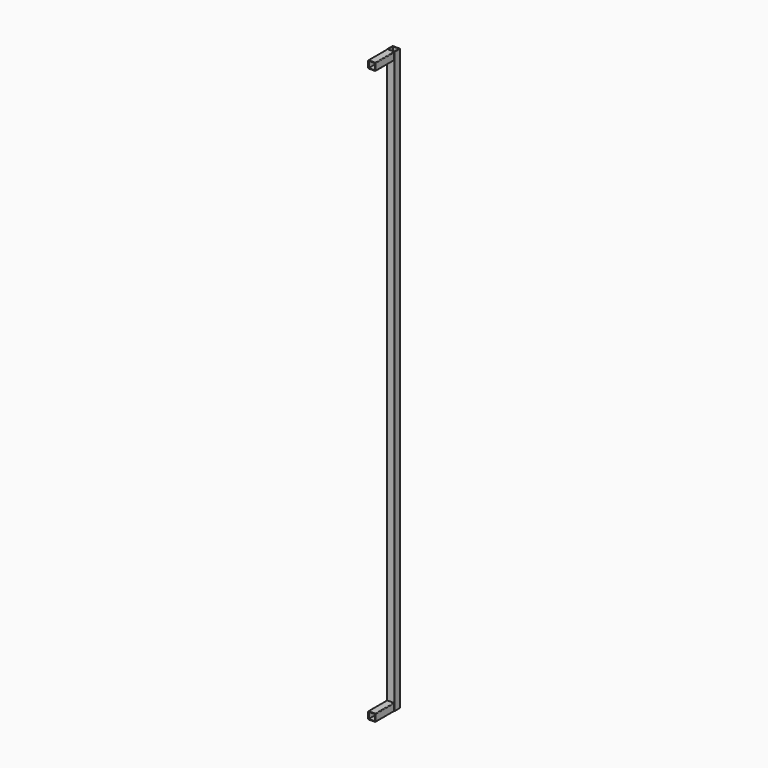
from build123d import *

# Parameters (mm, degrees)
F0_W     = 26.75
F0_H     = 26.75
F1_DEPTH = 2500
F2_W     = 26.75
F2_H     = 26.75
F3_DEPTH = 100


with BuildPart() as f1:
    # F0 (on Top) → F1 (new body)
    with BuildSketch(Plane.XY):
        with BuildLine():
            ThreePointArc((15.875, 13.375), (15.142767, 15.142767), (13.375, 15.875))
            Line((13.375, 15.875), (-13.375, 15.875))
            ThreePointArc((-13.375, 15.875), (-15.142767, 15.142767), (-15.875, 13.375))
            Line((-15.875, 13.375), (-15.875, -13.375))
            ThreePointArc((-15.875, -13.375), (-15.142767, -15.142767), (-13.375, -15.875))
            Line((-13.375, -15.875), (13.375, -15.875))
            ThreePointArc((13.375, -15.875), (15.142767, -15.142767), (15.875, -13.375))
            Line((15.875, -13.375), (15.875, 13.375))
        make_face()
        Rectangle(F0_W, F0_H, mode=Mode.SUBTRACT)
    extrude(amount=F1_DEPTH)


with BuildPart() as f3:
    # F2 (on face) → F3 (new body)
    with BuildSketch(Plane.XZ.offset(15.875)):
        with BuildLine():
            Line((-13.375, 2468.25), (13.375, 2468.25))
            ThreePointArc((13.375, 2468.25), (15.142767, 2468.982233), (15.875, 2470.75))
            Line((15.875, 2470.75), (15.875, 2497.5))
            ThreePointArc((15.875, 2497.5), (15.142767, 2499.267767), (13.375, 2500))
            Line((13.375, 2500), (-13.375, 2500))
            ThreePointArc((-13.375, 2500), (-15.142767, 2499.267767), (-15.875, 2497.5))
            Line((-15.875, 2497.5), (-15.875, 2470.75))
            ThreePointArc((-15.875, 2470.75), (-15.142767, 2468.982233), (-13.375, 2468.25))
        make_face()
        with Locations((0, 2484.125)):
            Rectangle(F2_W, F2_H, mode=Mode.SUBTRACT)
        with BuildLine():
            Line((-13.375, 0), (13.375, 0))
            ThreePointArc((13.375, 0), (15.142767, 0.732233), (15.875, 2.5))
            Line((15.875, 2.5), (15.875, 29.25))
            ThreePointArc((15.875, 29.25), (15.142767, 31.017767), (13.375, 31.75))
            Line((13.375, 31.75), (-13.375, 31.75))
            ThreePointArc((-13.375, 31.75), (-15.142767, 31.017767), (-15.875, 29.25))
            Line((-15.875, 29.25), (-15.875, 2.5))
            ThreePointArc((-15.875, 2.5), (-15.142767, 0.732233), (-13.375, 0))
        make_face()
        with Locations((0, 15.875)):
            Rectangle(F2_W, F2_H, mode=Mode.SUBTRACT)
    extrude(amount=F3_DEPTH)


solid = Compound([f1.part, f3.part])
